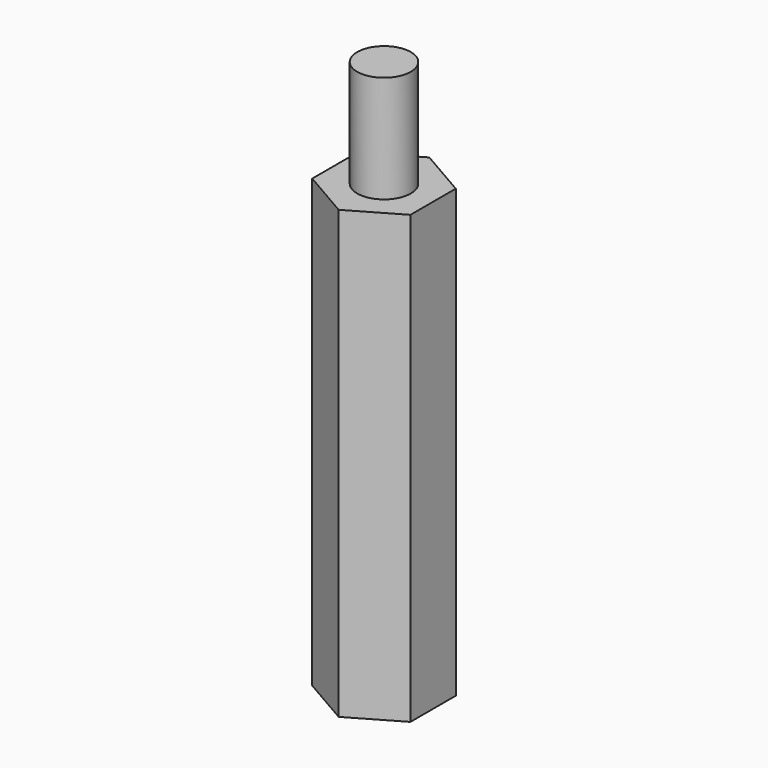
from build123d import *

# Parameters (mm, degrees)
F1_DEPTH = 25
F2_R     = 1.5
F3_DEPTH = 6
F4_R     = 1.5
F5_DEPTH = 6


with BuildPart() as f1:
    # F0 (on Top) → F1 (new body)
    with BuildSketch(Plane.XY):
        Polygon((0, 3.1754264805), (-2.75, 1.5877132403), (-2.75, -1.5877132403), (0, -3.1754264805), (2.75, -1.5877132403), (2.75, 1.5877132403), align=None)
    extrude(amount=F1_DEPTH)

    # F2 (on face) → F3 (join)
    with BuildSketch(Plane.XY.offset(25)):
        Circle(F2_R)
    extrude(amount=F3_DEPTH)

    # F4 (on face) → F5 (cut)
    with BuildSketch(Plane(origin=(0, 0, 0), x_dir=(1, 0, 0), z_dir=(0, 0, -1))):
        Circle(F4_R)
    extrude(amount=-F5_DEPTH, mode=Mode.SUBTRACT)


solid = f1.part
